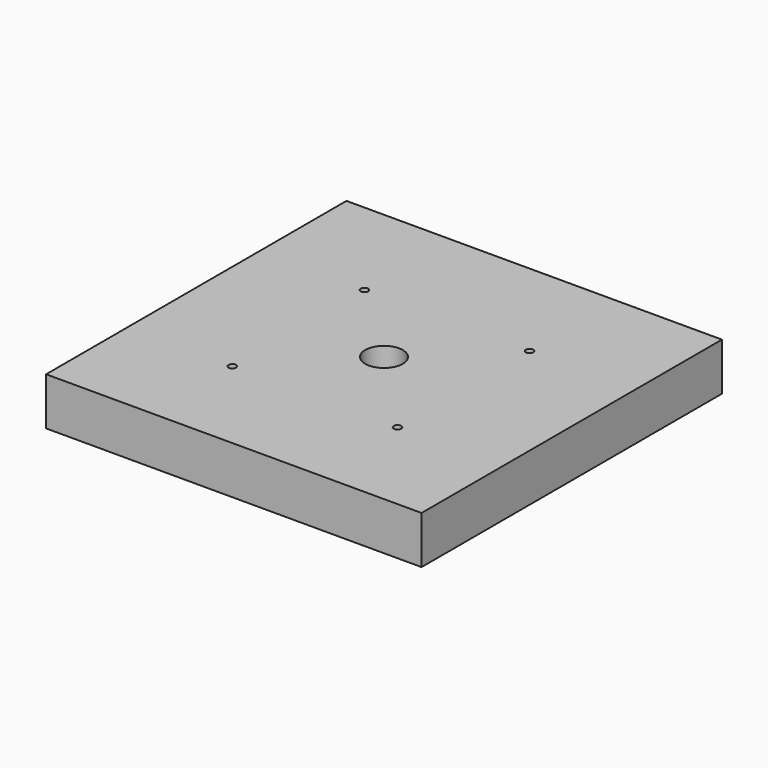
from build123d import *

# Parameters (mm, degrees)
F0_W     = 100
F0_H     = 100
F1_DEPTH = 12.7
F2_R     = 5
F3_DEPTH = 25
F2_R_2   = 1
F4_DEPTH = 5


with BuildPart() as f1:
    # F0 (on Top) → F1 (new body)
    with BuildSketch(Plane.XY):
        Rectangle(F0_W, F0_H)
    extrude(amount=F1_DEPTH)

    # F2 (on face) → F3 (cut)
    with BuildSketch(Plane.XY.offset(12.7)):
        Circle(F2_R)
    extrude(amount=-F3_DEPTH, mode=Mode.SUBTRACT)

    # F2 (on face) → F4 (cut)
    with BuildSketch(Plane.XY.offset(12.7)):
        with Locations((-22, 21)):
            Circle(F2_R_2)
        with Locations((22, 21)):
            Circle(F2_R_2)
        with Locations((22, -23)):
            Circle(F2_R_2)
        with Locations((-22, -23)):
            Circle(F2_R_2)
    extrude(amount=-F4_DEPTH, mode=Mode.SUBTRACT)


solid = f1.part
